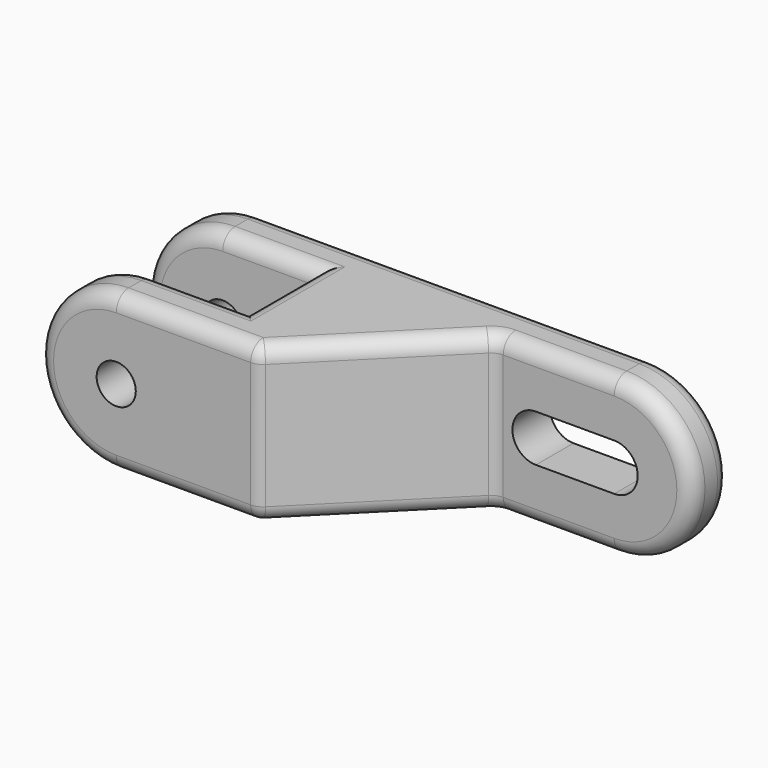
from build123d import *

# Parameters (mm, degrees)
F1_DEPTH = 20
F2_R     = 2.5
F3_DEPTH = 25
F4_R     = 2


with BuildPart() as f1:
    # F0 (on Top) → F1 (new body)
    with BuildSketch(Plane.XY):
        Polygon((70, 0), (0, 0), (0, -6), (22, -6), (22, -17), (0, -17), (0, -23), (28, -23), (45, -6), (70, -6), align=None)
    extrude(amount=F1_DEPTH)

    # F2 (on Front) → F3 (cut)
    with BuildSketch(Plane.XZ):
        with BuildLine():
            Line((72, 20), (60, 20))
            ThreePointArc((60, 20), (70, 10), (60, 0))
            Line((60, 0), (72, 0))
            Line((72, 0), (72, 20))
        make_face()
        with BuildLine():
            ThreePointArc((10, 0), (0, 10), (10, 20))
            Line((10, 20), (-2, 20))
            Line((-2, 20), (-2, 0))
            Line((-2, 0), (10, 0))
        make_face()
        with BuildLine():
            Line((50, 7), (60, 7))
            ThreePointArc((60, 7), (63, 10), (60, 13))
            Line((60, 13), (50, 13))
            ThreePointArc((50, 13), (47, 10), (50, 7))
        make_face()
        with Locations((10, 10)):
            Circle(F2_R)
    extrude(amount=F3_DEPTH, mode=Mode.SUBTRACT)

    # F4
    f4_edges = [f1.edges().sort_by_distance(p)[0] for p in [
        (60, -3, 20),
        (52.5, -6, 20),
        (36.5, -14.5, 20),
        (19, -23, 20),
        (10, -20, 20),
        (16, -17, 20),
        (22, -11.5, 20),
        (16, -6, 20),
        (10, -3, 20),
        (35, 0, 20),
        (36.5, -14.5, 0),
        (45, -6, 10),
        (28, -23, 10),
        (22, -11.5, 0),
    ]]
    fillet(f4_edges, radius=F4_R)


solid = f1.part
